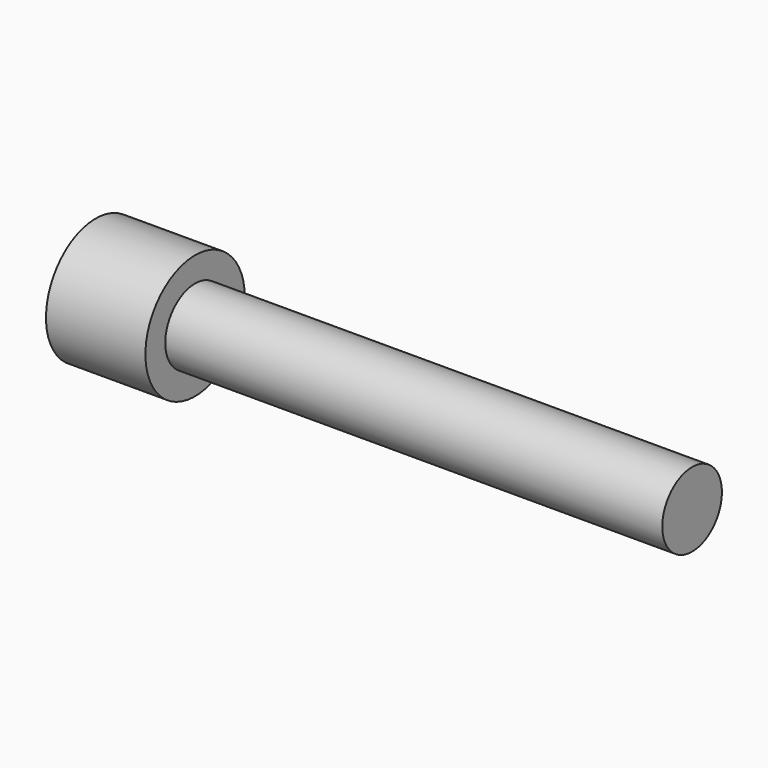
from build123d import *

# Parameters (mm, degrees)
F0_R     = 15.875
F1_DEPTH = 152.4
F3_D     = 12
F3_DEPTH = 32
F3_TIP   = 3.6051637142
F4_W     = 18
F4_H     = 4
F5_DEPTH = 8.5
F6_R     = 15.875
F6_R_2   = 9.525
F7_DEPTH = 127


with BuildPart() as f1:
    # F0 (on Right) → F1 (new body)
    with BuildSketch(Plane.YZ):
        Circle(F0_R)
    extrude(amount=F1_DEPTH)

    # F3
    with Locations(Plane(origin=(0, 0, 0), x_dir=(0, -1, 0), z_dir=(-1, 0, 0))):
        with Locations((0, 0)):
            Hole(F3_D / 2, depth=F3_DEPTH)
            with Locations((0, 0, -(F3_DEPTH + F3_TIP / 2))):  # 118° drill point
                Cone(0, F3_D / 2, F3_TIP, mode=Mode.SUBTRACT)

    # F4 (on Top) → F5 (cut)
    with BuildSketch(Plane.XY):
        with Locations((9, 0)):
            Rectangle(F4_W, F4_H)
    extrude(amount=F5_DEPTH, mode=Mode.SUBTRACT)

    # F6 (on face) → F7 (cut)
    with BuildSketch(Plane.YZ.offset(152.4)):
        Circle(F6_R)
        Circle(F6_R_2, mode=Mode.SUBTRACT)
    extrude(amount=-F7_DEPTH, mode=Mode.SUBTRACT)


solid = f1.part
